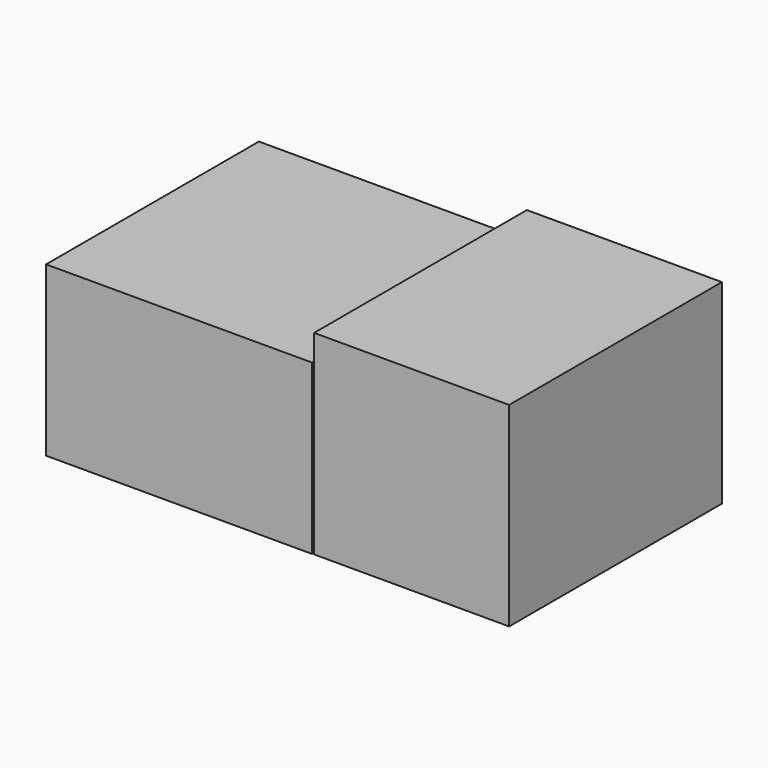
from build123d import *

# Parameters (mm, degrees)
F0_W     = 150
F0_H     = 95
F1_DEPTH = 75
F2_W     = 110
F2_H     = 110
F3_DEPTH = 75
F4_T     = -1


with BuildPart() as f1:
    # F0 (on Front) → F1 (new body, symmetric)
    with BuildSketch(Plane.XZ):
        with Locations((-47.5, -63.303723)):
            Rectangle(F0_W, F0_H)
    extrude(amount=F1_DEPTH, both=True)


with BuildPart() as f3:
    # F2 (on Front) → F3 (new body, symmetric)
    with BuildSketch(Plane.XZ):
        with Locations((83.641535, -55.66483)):
            Rectangle(F2_W, F2_H)
    extrude(amount=F3_DEPTH, both=True)

    # F4
    f4_openings = [f3.faces().sort_by_distance(p)[0] for p in [
        (83.641535, 75, -55.66483),
    ]]
    offset(amount=F4_T, openings=f4_openings)


solid = Compound([f1.part, f3.part])
